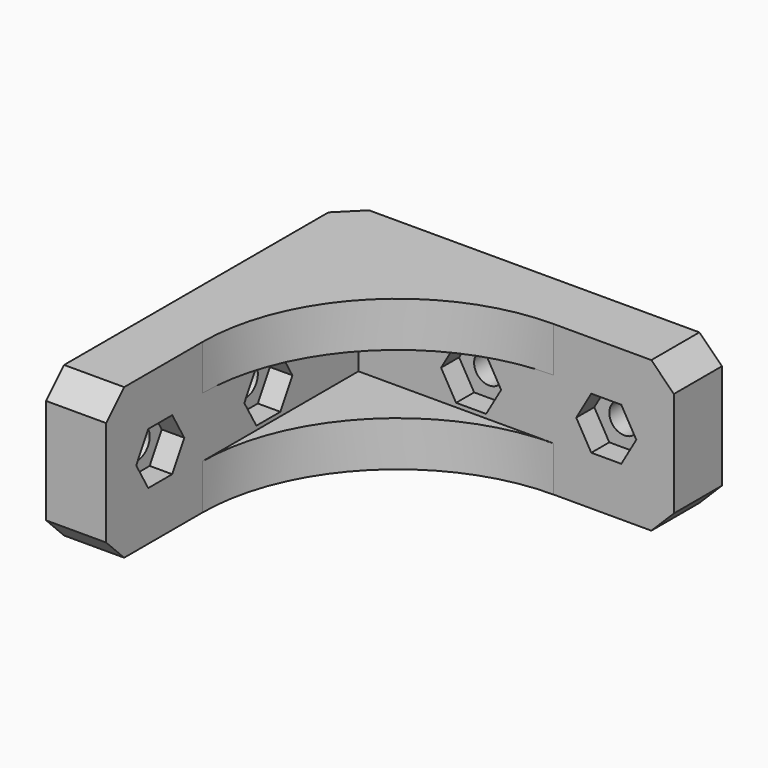
from build123d import *

# Parameters (mm, degrees)
PRISM001_DEPTH            = 14
PRISM001_ROLL_ANGLE       = 90.000052
PRISM001_PITCH_ANGLE      = 59.999967
PRISM001_PLACEMENT_ANGLE  = 90.000052
CYLINDER_R                = 2
CYLINDER_DEPTH            = 20
CYLINDER_PITCH_ANGLE      = 90
FUSION002_PLACEMENT_ANGLE = -90
FUSION003_PLACEMENT_ANGLE = -90
BOX_W                     = 36
BOX_H                     = 38
BOX_DEPTH                 = 8
PAD_DEPTH                 = 20
CHAMFER_SIZE              = 3
FILLET_R                  = 26


with BuildPart() as prism001:
    # Prism001 → Prism001 (new body)
    with BuildSketch(Plane.XY):
        Polygon((4, 0), (2, 3.464102), (-2, 3.464102), (-4, 0), (-2, -3.464102), (2, -3.464102), align=None)
    extrude(amount=PRISM001_DEPTH)


with BuildPart() as prism001_1:
    # Prism001 roll: moved
    add(prism001.part.rotate(Axis((0, 0, 0), (1, 0, 0)), PRISM001_ROLL_ANGLE))


with BuildPart() as prism001_2:
    # Prism001 pitch: moved
    add(prism001_1.part.rotate(Axis((0, 0, 0), (0, 1, 0)), PRISM001_PITCH_ANGLE))


with BuildPart() as prism001_3:
    # Prism001 placement: moved
    add(prism001_2.part.moved(Location((5, 9, 10))).rotate(Axis((5, 9, 10), (0, 0, 1)), PRISM001_PLACEMENT_ANGLE))


with BuildPart() as cylinder:
    # Cylinder → Cylinder (new body)
    with BuildSketch(Plane.XY):
        Circle(CYLINDER_R)
    extrude(amount=CYLINDER_DEPTH)


with BuildPart() as cylinder_1:
    # Cylinder pitch: moved
    add(cylinder.part.rotate(Axis((0, 0, 0), (0, 1, 0)), CYLINDER_PITCH_ANGLE))


with BuildPart() as cylinder_2:
    # Cylinder placement: moved
    add(cylinder_1.part.moved(Location((-3, 9, 10))))


with BuildPart() as fusion002:
    # Fusion002 base: copy of Cylinder
    add(cylinder_2.part)

    # Fusion002: union Prism001
    add(prism001_3.part)


with BuildPart() as fusion002_1:
    # Fusion002 placement: moved
    add(fusion002.part.moved(Location((14, 50, 0))).rotate(Axis((14, 50, 0), (0, 0, 1)), FUSION002_PLACEMENT_ANGLE))


with BuildPart() as fusion:
    # Fusion base: copy of Cylinder
    add(cylinder_2.part)

    # Fusion: union Prism001
    add(prism001_3.part)


with BuildPart() as fusion_1:
    # Fusion placement: moved
    add(fusion.part.moved(Location((0, 18, 0))))


with BuildPart() as fusion001:
    # Fusion001 base: copy of Cylinder
    add(cylinder_2.part)

    # Fusion001: union Prism001
    add(prism001_3.part)


with BuildPart() as fusion004:
    # Fusion003 base: copy of Cylinder
    add(cylinder_2.part)

    # Fusion003: union Prism001
    add(prism001_3.part)


with BuildPart() as fusion004_1:
    # Fusion003 placement: moved
    add(fusion004.part.moved(Location((32, 50, 0))).rotate(Axis((32, 50, 0), (0, 0, 1)), FUSION003_PLACEMENT_ANGLE))

    # Fusion004: union Fusion002, Fusion, Fusion001
    add(fusion002_1.part)
    add(fusion_1.part)
    add(fusion001.part)


with BuildPart() as cube:
    # Box → Box (new body)
    with BuildSketch(Plane(origin=(8, 4, 6), x_dir=(1, 0, 0), z_dir=(0, 0, 1))):
        with Locations((18, 19)):
            Rectangle(BOX_W, BOX_H)
    extrude(amount=BOX_DEPTH)


with BuildPart() as cut001:
    # Sketch → Pad (new body)
    with BuildSketch(Plane.XY):
        Polygon((0, 0), (8, 0), (8, 42), (50, 42), (50, 50), (0, 50), align=None)
    extrude(amount=PAD_DEPTH)

    # Chamfer
    chamfer_edges = [cut001.edges().sort_by_distance(p)[0] for p in [
        (4, 0, 0),
        (4, 0, 20),
        (50, 46, 0),
        (50, 46, 20),
        (0, 50, 10),
    ]]
    chamfer(chamfer_edges, length=CHAMFER_SIZE)

    # Fillet
    fillet_edges = [cut001.edges().sort_by_distance(p)[0] for p in [
        (8, 42, 10),
    ]]
    fillet(fillet_edges, radius=FILLET_R)

    # Cut: cut Cube
    add(cube.part, mode=Mode.SUBTRACT)

    # Cut001: cut Fusion004
    add(fusion004_1.part, mode=Mode.SUBTRACT)


solid = cut001.part
